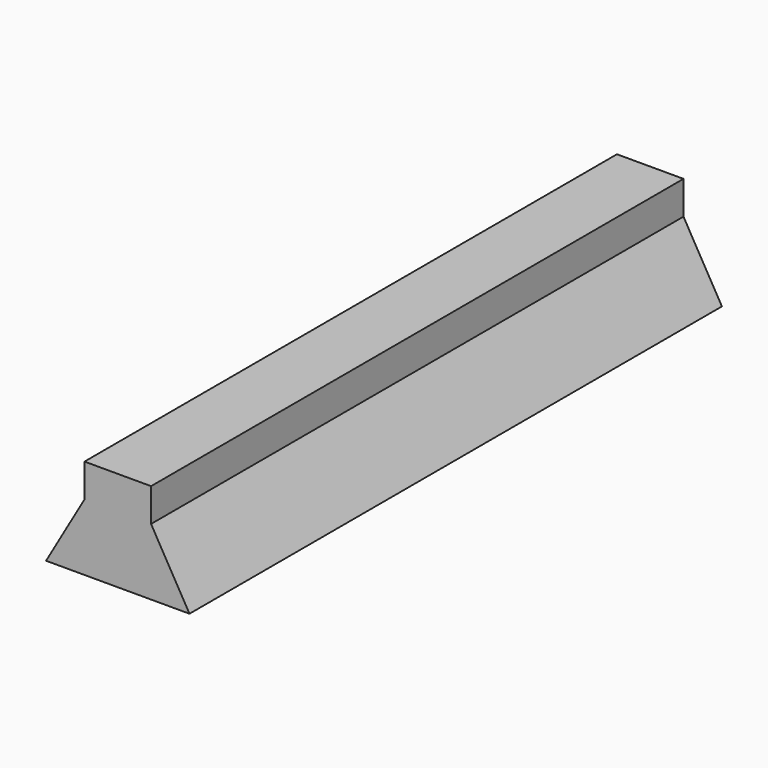
from build123d import *

# Parameters (mm, degrees)
F2_DEPTH = 100


with BuildPart() as f2:
    # F1 (on offset) → F2 (new body)
    with BuildSketch(Plane.XZ.offset(50)):
        Polygon((10.773503, -10), (5, 0), (5, 5), (-5, 5), (-5, 0), (-10.773503, -10), align=None)
    extrude(amount=-F2_DEPTH)


solid = f2.part
